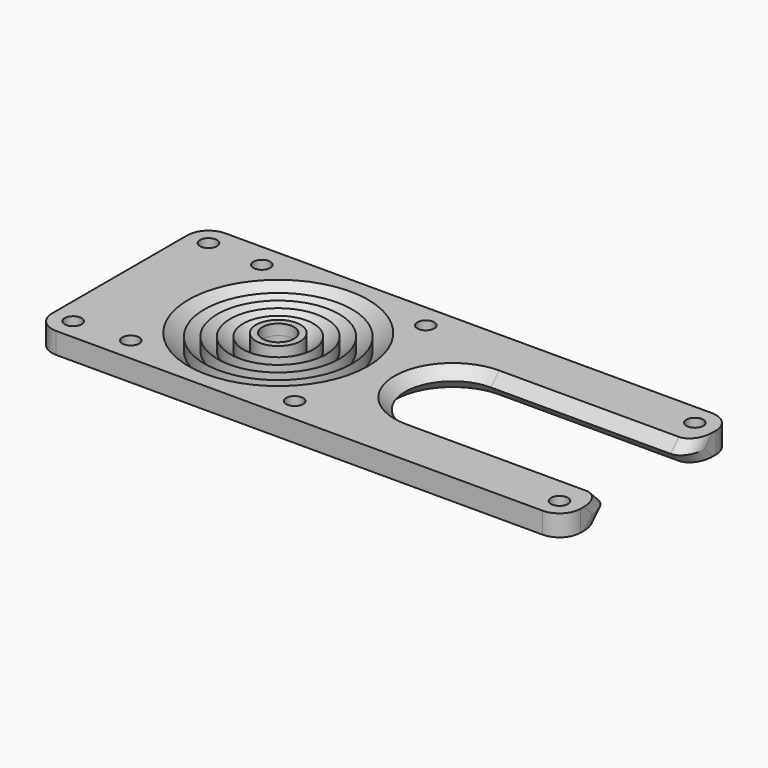
from build123d import *

# Parameters (mm, degrees)
PAD_DEPTH         = 100
SKETCH001_R       = 1.6
SKETCH001_R_2     = 3
POCKET_DEPTH      = 2.001
POCKET_DEPTH_BACK = 2.001
SKETCH004_R       = 11
SKETCH003_R       = 9
SKETCH005_R       = 11
FILLET_R          = 4
FILLET001_R       = 3


with BuildPart() as part:
    # Sketch → Pad (new body)
    with BuildSketch(Plane.YZ):
        Polygon((0, 2), (-20, 2), (-20, 0), (-20, -2), (0, -2), (20, -2), (20, 0), (20, 2), align=None)
    extrude(amount=PAD_DEPTH)

    # Sketch001 → Pocket (cut, two sides)
    with BuildSketch(Plane.XY) as pocket_sk:
        with Locations((14.5, 15.5)):
            Circle(SKETCH001_R)
        with Locations((45.5, 15.5)):
            Circle(SKETCH001_R)
        with Locations((45.5, -15.5)):
            Circle(SKETCH001_R)
        with Locations((14.5, -15.5)):
            Circle(SKETCH001_R)
        with Locations((30, 0)):
            Circle(SKETCH001_R_2)
        with Locations((4, 16)):
            Circle(SKETCH001_R)
        with Locations((4, -16)):
            Circle(SKETCH001_R)
        with Locations((96, 16)):
            Circle(SKETCH001_R)
        with Locations((96, -16)):
            Circle(SKETCH001_R)
    extrude(amount=-POCKET_DEPTH, mode=Mode.SUBTRACT)
    extrude(pocket_sk.sketch, amount=POCKET_DEPTH_BACK, mode=Mode.SUBTRACT)

    # Sketch004 (on DatumPlane) → SubtractiveLoft section 0
    with BuildSketch(Plane.XY.offset(2)):
        with Locations((63, 0)):
            Circle(SKETCH004_R)
    # Sketch003 → SubtractiveLoft section 1
    with BuildSketch(Plane.XY):
        with Locations((63, 0)):
            Circle(SKETCH003_R)
    # Sketch005 (on DatumPlane) → SubtractiveLoft section 2
    with BuildSketch(Plane.XY.offset(-2)):
        with Locations((63, 0)):
            Circle(SKETCH005_R)
    loft(ruled=True, mode=Mode.SUBTRACT)

    # Sketch007 (on DatumPlane) → SubtractiveLoft001 section 0
    with BuildSketch(Plane.XY.offset(2)):
        Polygon((63, 0), (63, 11), (113, 11), (113, -11), (63, -11), align=None)
    # Sketch006 → SubtractiveLoft001 section 1
    with BuildSketch(Plane.XY):
        Polygon((63, 0), (63, 9), (113, 9), (113, -9), (63, -9), align=None)
    # Sketch008 (on DatumPlane) → SubtractiveLoft001 section 2
    with BuildSketch(Plane.XY.offset(-2)):
        Polygon((63, 11), (63, 0), (63, -11), (113, -11), (113, 11), align=None)
    loft(ruled=True, mode=Mode.SUBTRACT)

    # Sketch009 (on DatumPlane) → Groove (revolve, cut)
    with BuildSketch(Plane(origin=(30, 0, 0), x_dir=(1, 0, 0), z_dir=(0, 1, 0))):
        Polygon((4.2, -2), (4.2, 1), (6.638095, -1.4), (6.638095, 1), (9.07619, -1.4), (9.07619, 1), (11.514286, -1.4), (11.514286, 1), (13.952381, -1.4), (13.952381, 1), (17, -2), align=None)
    revolve(axis=Axis((30, 0, 0), (0, 0, -1)), mode=Mode.SUBTRACT)

    # Fillet
    fillet_edges = [part.edges().sort_by_distance(p)[0] for p in [
        (0, -20, 1),
        (0, 20, 1),
        (100, 20, 1),
        (100, -20, 1),
    ]]
    fillet(fillet_edges, radius=FILLET_R)

    # Fillet001
    fillet001_edges = [part.edges().sort_by_distance(p)[0] for p in [
        (100, -10, 1),
        (100, 10, 1),
        (100, 10, -1),
        (100, -10, -1),
    ]]
    fillet(fillet001_edges, radius=FILLET001_R)


solid = part.part
